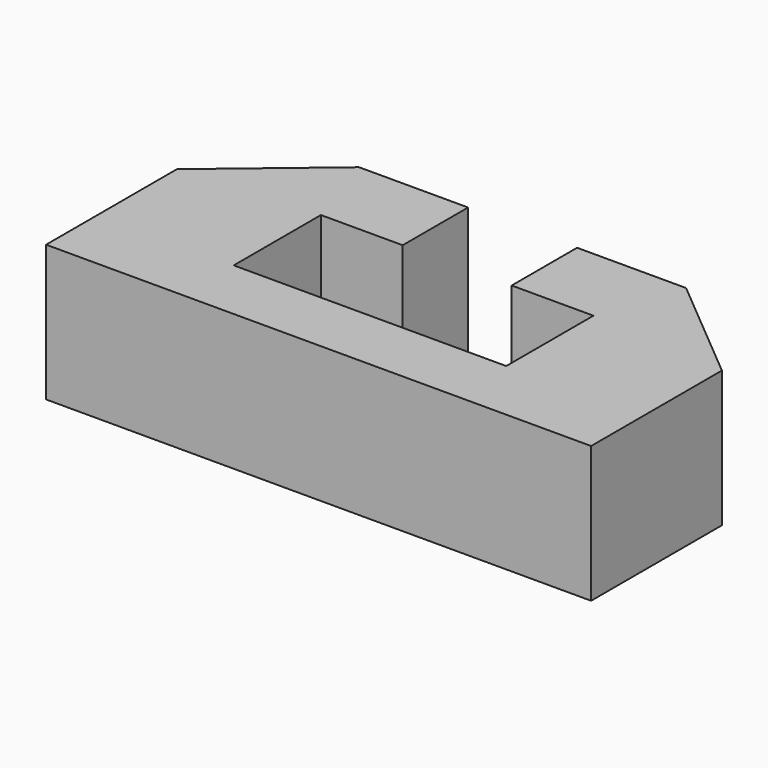
from build123d import *

# Parameters (mm, degrees)
F1_DEPTH = 25


with BuildPart() as f1:
    # F0 (on Top) → F1 (new body)
    with BuildSketch(Plane.XY):
        Polygon((-54.724703, 0), (-54.724703, -30), (45.275297, -30), (45.275297, 0), (20.275297, 0), (20.275297, -18.218007), (-29.724703, -18.218007), (-29.724703, 0), align=None)
        Polygon((-34.724703, 16.781993), (-54.724703, 0), (-29.724703, 0), (-29.724703, 1.781993), (-14.724703, 1.781993), (-14.724703, 16.781993), align=None)
        Polygon((20.275297, 0), (45.275297, 0), (25.275297, 16.781993), (5.275297, 16.781993), (5.275297, 1.781993), (20.275297, 1.781993), align=None)
    extrude(amount=F1_DEPTH)


solid = f1.part
